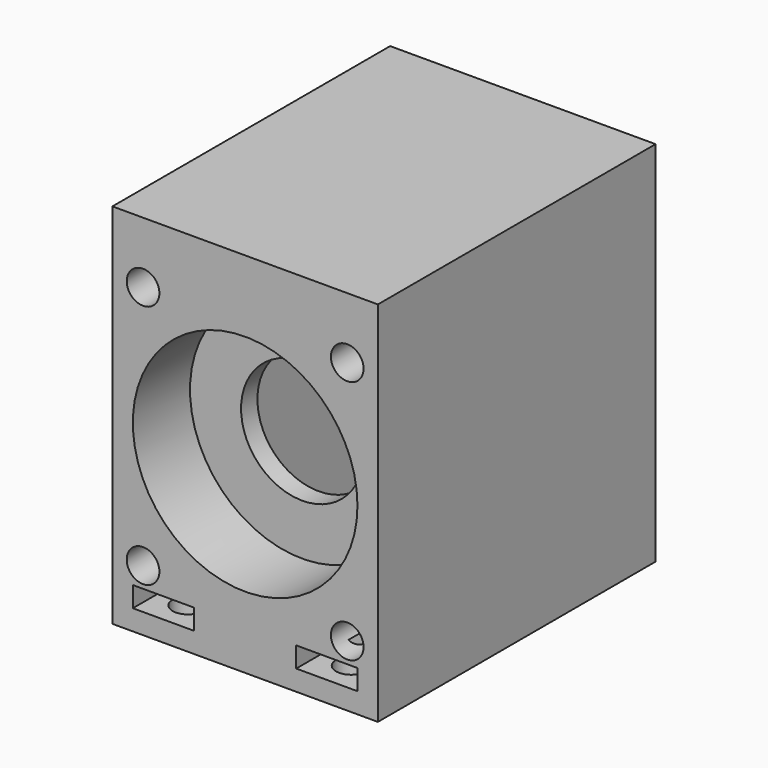
from build123d import *

# Parameters (mm, degrees)
CYLINDER541_R               = 1.5
CYLINDER541_DEPTH           = 20
CYLINDER541_PLACEMENT_ANGLE = -112.5
CYLINDER542_R               = 1.5
CYLINDER542_DEPTH           = 20
CYLINDER542_PLACEMENT_ANGLE = 112.5
CYLINDER543_R               = 1.5
CYLINDER543_DEPTH           = 20
CYLINDER543_PLACEMENT_ANGLE = 112.5
CYLINDER540_R               = 1.5
CYLINDER540_DEPTH           = 20
CYLINDER540_PLACEMENT_ANGLE = -112.5
BOX742_W                    = 6
BOX742_H                    = 6
BOX742_DEPTH                = 2
BOX743_W                    = 6
BOX743_H                    = 6
BOX743_DEPTH                = 2
BOX744_W                    = 6
BOX744_H                    = 6
BOX744_DEPTH                = 2
BOX741_W                    = 6
BOX741_H                    = 6
BOX741_DEPTH                = 2
CYLINDER538_R               = 3
CYLINDER538_DEPTH           = 3
CYLINDER537_R               = 3
CYLINDER537_DEPTH           = 3
CYLINDER536_R               = 3
CYLINDER536_DEPTH           = 3
CYLINDER539_R               = 3
CYLINDER539_DEPTH           = 3
CYLINDER535_R               = 1.6
CYLINDER535_DEPTH           = 80
CYLINDER533_R               = 1.6
CYLINDER533_DEPTH           = 80
CYLINDER534_R               = 1.6
CYLINDER534_DEPTH           = 80
CYLINDER532_R               = 1.6
CYLINDER532_DEPTH           = 80
CYLINDER531_R               = 6
CYLINDER531_DEPTH           = 20
CYLINDER530_R               = 11
CYLINDER530_DEPTH           = 7
CYLINDER529_R               = 8
CYLINDER529_DEPTH           = 20
BOX740_W                    = 16
BOX740_H                    = 19
BOX740_DEPTH                = 50
BOX739_W                    = 26
BOX739_H                    = 34
BOX739_DEPTH                = 36
CUT681_PLACEMENT_ANGLE      = 180


with BuildPart() as obj1:
    # Cylinder541 → Cylinder541 (new body)
    with BuildSketch(Plane.XY):
        Circle(CYLINDER541_R)
    extrude(amount=CYLINDER541_DEPTH)


with BuildPart() as obj1_1:
    # Cylinder541 placement: moved
    add(obj1.part.moved(Location((-8, 34, 51))).rotate(Axis((-8, 34, 51), (0, 0, 1)), CYLINDER541_PLACEMENT_ANGLE))


with BuildPart() as obj2:
    # Cylinder542 → Cylinder542 (new body)
    with BuildSketch(Plane.XY):
        Circle(CYLINDER542_R)
    extrude(amount=CYLINDER542_DEPTH)


with BuildPart() as obj2_1:
    # Cylinder542 placement: moved
    add(obj2.part.moved(Location((8, 62, 51))).rotate(Axis((8, 62, 51), (0, 0, -1)), CYLINDER542_PLACEMENT_ANGLE))


with BuildPart() as obj3:
    # Cylinder543 → Cylinder543 (new body)
    with BuildSketch(Plane.XY):
        Circle(CYLINDER543_R)
    extrude(amount=CYLINDER543_DEPTH)


with BuildPart() as obj3_1:
    # Cylinder543 placement: moved
    add(obj3.part.moved(Location((-8, 62, 51))).rotate(Axis((-8, 62, 51), (0, 0, -1)), CYLINDER543_PLACEMENT_ANGLE))


with BuildPart() as compound423:
    # Cylinder540 → Cylinder540 (new body)
    with BuildSketch(Plane.XY):
        Circle(CYLINDER540_R)
    extrude(amount=CYLINDER540_DEPTH)


with BuildPart() as compound423_1:
    # Cylinder540 placement: moved
    add(compound423.part.moved(Location((8, 34, 51))).rotate(Axis((8, 34, 51), (0, 0, 1)), CYLINDER540_PLACEMENT_ANGLE))

    # Compound423: union obj1, obj2, obj3
    add(obj1_1.part)
    add(obj2_1.part)
    add(obj3_1.part)


with BuildPart() as compound423_2:
    # Compound423 placement: moved
    add(compound423_1.part.moved(Location((0, 0, 5))))


with BuildPart() as krychle741:
    # Box742 → Box742 (new body)
    with BuildSketch(Plane(origin=(5, 59, 53), x_dir=(1, 0, 0), z_dir=(0, 0, 1))):
        with Locations((3, 3)):
            Rectangle(BOX742_W, BOX742_H)
    extrude(amount=BOX742_DEPTH)


with BuildPart() as krychle742:
    # Box743 → Box743 (new body)
    with BuildSketch(Plane(origin=(5, 31, 53), x_dir=(1, 0, 0), z_dir=(0, 0, 1))):
        with Locations((3, 3)):
            Rectangle(BOX743_W, BOX743_H)
    extrude(amount=BOX743_DEPTH)


with BuildPart() as krychle743:
    # Box744 → Box744 (new body)
    with BuildSketch(Plane(origin=(-11, 31, 53), x_dir=(1, 0, 0), z_dir=(0, 0, 1))):
        with Locations((3, 3)):
            Rectangle(BOX744_W, BOX744_H)
    extrude(amount=BOX744_DEPTH)


with BuildPart() as compound422:
    # Box741 → Box741 (new body)
    with BuildSketch(Plane(origin=(-11, 59, 53), x_dir=(1, 0, 0), z_dir=(0, 0, 1))):
        with Locations((3, 3)):
            Rectangle(BOX741_W, BOX741_H)
    extrude(amount=BOX741_DEPTH)

    # Compound422: union Krychle741, Krychle742, Krychle743
    add(krychle741.part)
    add(krychle742.part)
    add(krychle743.part)


with BuildPart() as compound422_1:
    # Compound422 placement: moved
    add(compound422.part.moved(Location((0, 0, 4))))


with BuildPart() as obj4:
    # Cylinder538 → Cylinder538 (new body)
    with BuildSketch(Plane(origin=(-10, 80, 31), x_dir=(1, 0, 0), z_dir=(0, -1, 0))):
        Circle(CYLINDER538_R)
    extrude(amount=CYLINDER538_DEPTH)


with BuildPart() as obj5:
    # Cylinder537 → Cylinder537 (new body)
    with BuildSketch(Plane(origin=(10, 80, 55), x_dir=(1, 0, 0), z_dir=(0, -1, 0))):
        Circle(CYLINDER537_R)
    extrude(amount=CYLINDER537_DEPTH)


with BuildPart() as obj6:
    # Cylinder536 → Cylinder536 (new body)
    with BuildSketch(Plane(origin=(10, 80, 31), x_dir=(1, 0, 0), z_dir=(0, -1, 0))):
        Circle(CYLINDER536_R)
    extrude(amount=CYLINDER536_DEPTH)


with BuildPart() as compound421:
    # Cylinder539 → Cylinder539 (new body)
    with BuildSketch(Plane(origin=(-10, 80, 55), x_dir=(1, 0, 0), z_dir=(0, -1, 0))):
        Circle(CYLINDER539_R)
    extrude(amount=CYLINDER539_DEPTH)

    # Compound421: union obj4, obj5, obj6
    add(obj4.part)
    add(obj5.part)
    add(obj6.part)


with BuildPart() as compound421_1:
    # Compound421 placement: moved
    add(compound421.part.moved(Location((0, -8, 0))))


with BuildPart() as obj7:
    # Cylinder535 → Cylinder535 (new body)
    with BuildSketch(Plane(origin=(-10, 80, 31), x_dir=(1, 0, 0), z_dir=(0, -1, 0))):
        Circle(CYLINDER535_R)
    extrude(amount=CYLINDER535_DEPTH)


with BuildPart() as obj8:
    # Cylinder533 → Cylinder533 (new body)
    with BuildSketch(Plane(origin=(10, 80, 55), x_dir=(1, 0, 0), z_dir=(0, -1, 0))):
        Circle(CYLINDER533_R)
    extrude(amount=CYLINDER533_DEPTH)


with BuildPart() as obj9:
    # Cylinder534 → Cylinder534 (new body)
    with BuildSketch(Plane(origin=(10, 80, 31), x_dir=(1, 0, 0), z_dir=(0, -1, 0))):
        Circle(CYLINDER534_R)
    extrude(amount=CYLINDER534_DEPTH)


with BuildPart() as compound420:
    # Cylinder532 → Cylinder532 (new body)
    with BuildSketch(Plane(origin=(-10, 80, 55), x_dir=(1, 0, 0), z_dir=(0, -1, 0))):
        Circle(CYLINDER532_R)
    extrude(amount=CYLINDER532_DEPTH)

    # Compound420: union obj7, obj8, obj9
    add(obj7.part)
    add(obj8.part)
    add(obj9.part)


with BuildPart() as obj10:
    # Cylinder531 → Cylinder531 (new body)
    with BuildSketch(Plane(origin=(0, 73, 43), x_dir=(1, 0, 0), z_dir=(0, -1, 0))):
        Circle(CYLINDER531_R)
    extrude(amount=CYLINDER531_DEPTH)


with BuildPart() as obj11:
    # Cylinder530 → Cylinder530 (new body)
    with BuildSketch(Plane(origin=(0, 65, 43), x_dir=(1, 0, 0), z_dir=(0, -1, 0))):
        Circle(CYLINDER530_R)
    extrude(amount=CYLINDER530_DEPTH)


with BuildPart() as obj12:
    # Cylinder529 → Cylinder529 (new body)
    with BuildSketch(Plane(origin=(0, 40, 43), x_dir=(1, 0, 0), z_dir=(0, -1, 0))):
        Circle(CYLINDER529_R)
    extrude(amount=CYLINDER529_DEPTH)


with BuildPart() as krychle739:
    # Box740 → Box740 (new body)
    with BuildSketch(Plane(origin=(-8, 37, 30), x_dir=(1, 0, 0), z_dir=(0, 0, 1))):
        with Locations((8, 9.5)):
            Rectangle(BOX740_W, BOX740_H)
    extrude(amount=BOX740_DEPTH)


with BuildPart() as t_mini_small_box:
    # Box739 → Box739 (new body)
    with BuildSketch(Plane(origin=(-13, 31, 25), x_dir=(1, 0, 0), z_dir=(0, 0, 1))):
        with Locations((13, 17)):
            Rectangle(BOX739_W, BOX739_H)
    extrude(amount=BOX739_DEPTH)

    # Cut675: cut Krychle739
    add(krychle739.part, mode=Mode.SUBTRACT)

    # Cut076: cut obj12
    add(obj12.part, mode=Mode.SUBTRACT)

    # Cut676: cut obj11
    add(obj11.part, mode=Mode.SUBTRACT)

    # Cut677: cut obj10
    add(obj10.part, mode=Mode.SUBTRACT)

    # Cut678: cut Compound420
    add(compound420.part, mode=Mode.SUBTRACT)

    # Cut679: cut Compound421
    add(compound421_1.part, mode=Mode.SUBTRACT)

    # Cut680: cut Compound422
    add(compound422_1.part, mode=Mode.SUBTRACT)

    # Cut681: cut Compound423
    add(compound423_2.part, mode=Mode.SUBTRACT)


with BuildPart() as t_mini_small_box_1:
    # Cut681 placement: moved
    add(t_mini_small_box.part.moved(Location((0, 2, -55))).rotate(Axis((0, 2, -55), (1, 0, 0)), CUT681_PLACEMENT_ANGLE))


solid = t_mini_small_box_1.part
